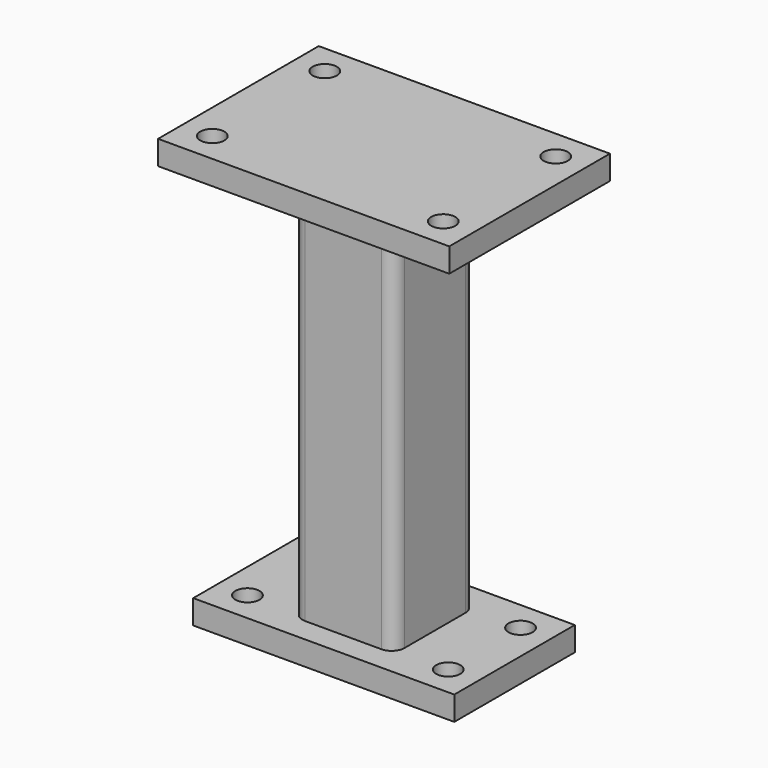
from build123d import *

# Parameters (mm, degrees)
F0_W     = 145
F0_H     = 100
F1_DEPTH = 12
F3_DEPTH = 192
F4_W     = 130
F4_H     = 75
F5_DEPTH = 12
F7_D     = 12
F7_DEPTH = 12
F7_TIP   = 3.6051637142
F9_D     = 12
F9_DEPTH = 12
F9_TIP   = 3.6051637142


with BuildPart() as f1:
    # F0 (on Top) → F1 (new body)
    with BuildSketch(Plane.XY):
        with Locations((72.5, 50)):
            Rectangle(F0_W, F0_H)
    extrude(amount=F1_DEPTH)

    # F2 (on face) → F3 (join)
    with BuildSketch(Plane(origin=(0, 0, 0), x_dir=(1, 0, 0), z_dir=(0, 0, -1))):
        with BuildLine():
            ThreePointArc((97.9, -30.95), (96.0401280605, -26.4598719395), (91.55, -24.6))
            Line((91.55, -24.6), (53.45, -24.6))
            ThreePointArc((53.45, -24.6), (48.9598719395, -26.4598719395), (47.1, -30.95))
            Line((47.1, -30.95), (47.1, -69.05))
            ThreePointArc((47.1, -69.05), (48.9598719395, -73.5401280605), (53.45, -75.4))
            Line((53.45, -75.4), (91.55, -75.4))
            ThreePointArc((91.55, -75.4), (96.0401280605, -73.5401280605), (97.9, -69.05))
            Line((97.9, -69.05), (97.9, -30.95))
        make_face()
        with BuildLine():
            Line((56.625, -27.775), (88.375, -27.775))
            ThreePointArc((88.375, -27.775), (92.8651280605, -29.6348719395), (94.725, -34.125))
            Line((94.725, -34.125), (94.725, -65.875))
            ThreePointArc((94.725, -65.875), (92.8651280605, -70.3651280605), (88.375, -72.225))
            Line((88.375, -72.225), (56.625, -72.225))
            ThreePointArc((56.625, -72.225), (52.1348719395, -70.3651280605), (50.275, -65.875))
            Line((50.275, -65.875), (50.275, -34.125))
            ThreePointArc((50.275, -34.125), (52.1348719395, -29.6348719395), (56.625, -27.775))
        make_face(mode=Mode.SUBTRACT)
    extrude(amount=F3_DEPTH)

    # F4 (on face) → F5 (join)
    with BuildSketch(Plane(origin=(0, 0, -192), x_dir=(1, 0, 0), z_dir=(0, 0, -1))):
        with Locations((72.5, -50)):
            Rectangle(F4_W, F4_H)
        with BuildLine():
            ThreePointArc((91.55, -24.6), (96.0401280605, -26.4598719395), (97.9, -30.95))
            Line((97.9, -30.95), (97.9, -69.05))
            ThreePointArc((97.9, -69.05), (96.0401280605, -73.5401280605), (91.55, -75.4))
            Line((91.55, -75.4), (53.45, -75.4))
            ThreePointArc((53.45, -75.4), (48.9598719395, -73.5401280605), (47.1, -69.05))
            Line((47.1, -69.05), (47.1, -30.95))
            ThreePointArc((47.1, -30.95), (48.9598719395, -26.4598719395), (53.45, -24.6))
            Line((53.45, -24.6), (91.55, -24.6))
        make_face(mode=Mode.SUBTRACT)
        with BuildLine():
            Line((97.9, -69.05), (97.9, -30.95))
            ThreePointArc((97.9, -30.95), (96.0401280605, -26.4598719395), (91.55, -24.6))
            Line((91.55, -24.6), (53.45, -24.6))
            ThreePointArc((53.45, -24.6), (48.9598719395, -26.4598719395), (47.1, -30.95))
            Line((47.1, -30.95), (47.1, -69.05))
            ThreePointArc((47.1, -69.05), (48.9598719395, -73.5401280605), (53.45, -75.4))
            Line((53.45, -75.4), (91.55, -75.4))
            ThreePointArc((91.55, -75.4), (96.0401280605, -73.5401280605), (97.9, -69.05))
        make_face()
        with BuildLine():
            ThreePointArc((50.275, -34.125), (52.1348719395, -29.6348719395), (56.625, -27.775))
            Line((56.625, -27.775), (88.375, -27.775))
            ThreePointArc((88.375, -27.775), (92.8651280605, -29.6348719395), (94.725, -34.125))
            Line((94.725, -34.125), (94.725, -65.875))
            ThreePointArc((94.725, -65.875), (92.8651280605, -70.3651280605), (88.375, -72.225))
            Line((88.375, -72.225), (56.625, -72.225))
            ThreePointArc((56.625, -72.225), (52.1348719395, -70.3651280605), (50.275, -65.875))
            Line((50.275, -65.875), (50.275, -34.125))
        make_face(mode=Mode.SUBTRACT)
        with BuildLine():
            Line((88.375, -27.775), (56.625, -27.775))
            ThreePointArc((56.625, -27.775), (52.1348719395, -29.6348719395), (50.275, -34.125))
            Line((50.275, -34.125), (50.275, -65.875))
            ThreePointArc((50.275, -65.875), (52.1348719395, -70.3651280605), (56.625, -72.225))
            Line((56.625, -72.225), (88.375, -72.225))
            ThreePointArc((88.375, -72.225), (92.8651280605, -70.3651280605), (94.725, -65.875))
            Line((94.725, -65.875), (94.725, -34.125))
            ThreePointArc((94.725, -34.125), (92.8651280605, -29.6348719395), (88.375, -27.775))
        make_face()
    extrude(amount=F5_DEPTH)

    # F7 (one way)
    with BuildSketch(Plane.XY.offset(-192)):
        with Locations((122.5, 72.5), (122.5, 27.5), (22.5, 27.5), (22.5, 72.5)):
            Circle(F7_D / 2)
    extrude(amount=-F7_DEPTH, mode=Mode.SUBTRACT)
    with Locations(Plane.XY.offset(-192)):
        with Locations((122.5, 72.5), (122.5, 27.5), (22.5, 27.5), (22.5, 72.5)):
            with Locations((0, 0, -(F7_DEPTH + F7_TIP / 2))):  # 118° drill point
                Cone(0, F7_D / 2, F7_TIP, mode=Mode.SUBTRACT)

    # F9
    with Locations(Plane.XY.offset(12)):
        with Locations((15, 85), (130, 85), (130, 15), (15, 15)):
            Hole(F9_D / 2, depth=F9_DEPTH)
            with Locations((0, 0, -(F9_DEPTH + F9_TIP / 2))):  # 118° drill point
                Cone(0, F9_D / 2, F9_TIP, mode=Mode.SUBTRACT)


solid = f1.part
